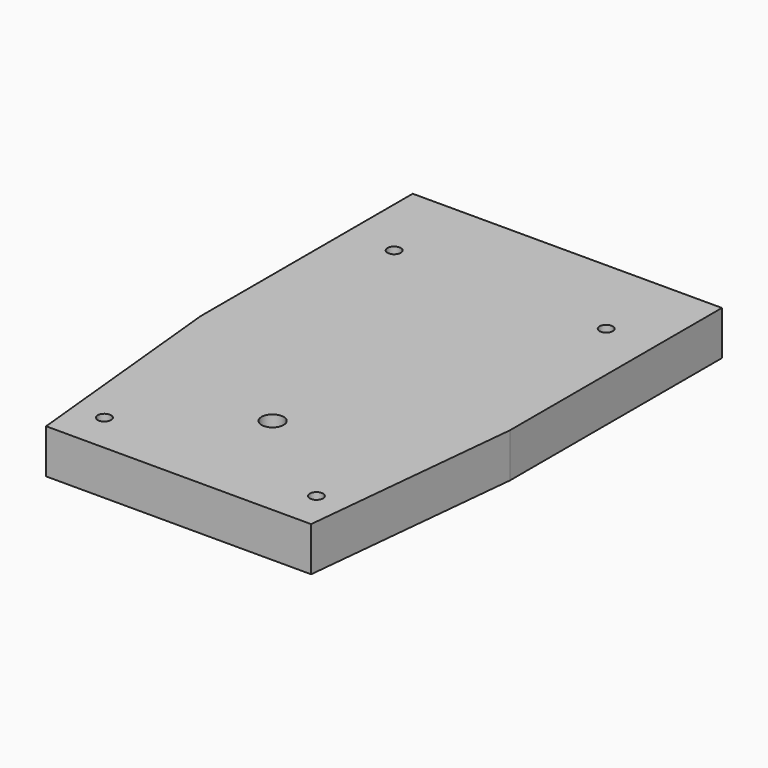
from build123d import *

# Parameters (mm, degrees)
F1_DEPTH = 10
F3_D     = 5
F4_D     = 3


with BuildPart() as f1:
    # F0 (on Top) → F1 (new body)
    with BuildSketch(Plane.XY):
        Polygon((35, -5), (35, 55), (-35, 55), (-35, -5), (-30, -55), (30, -55), align=None)
    extrude(amount=F1_DEPTH)

    # F3 (through all)
    with Locations(Plane.XY.offset(10)):
        with Locations((0, -28.4)):
            Hole(F3_D / 2)

    # F4 (through all)
    with Locations(Plane.XY.offset(10)):
        with Locations((-24, 36), (24, 36), (24, -46), (-24, -46)):
            Hole(F4_D / 2)


solid = f1.part
